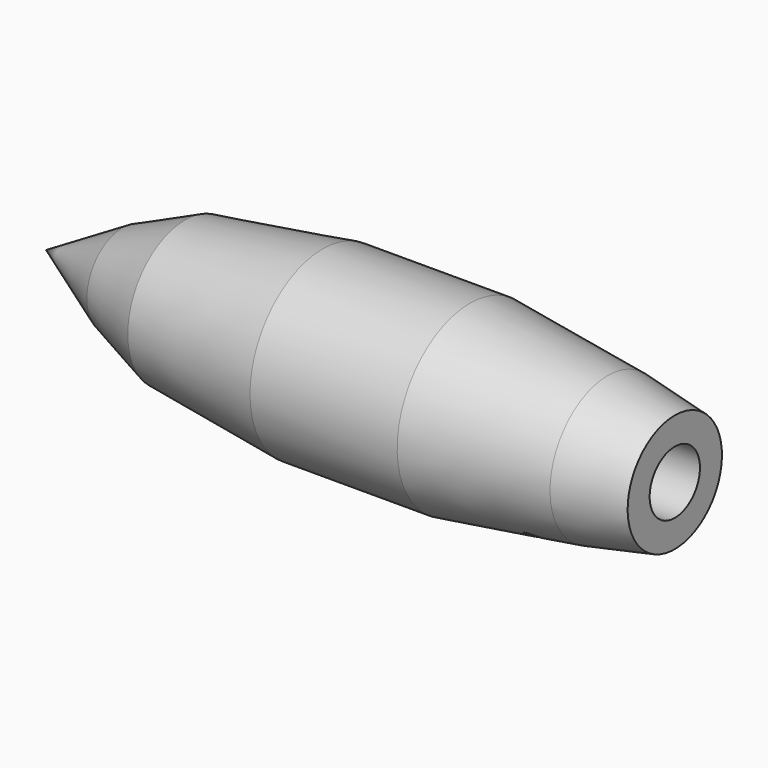
from build123d import *

# Parameters (mm, degrees)
F2_R          = 1.905
F3_DEPTH      = 29.4065909418
F3_DEPTH_BACK = 29.4065909418
F4_R          = 10.16
F5_DEPTH      = 50.8
F6_R          = 0.9525
F7_DEPTH      = 38.1


with BuildPart() as f1:
    # F0 (on Front) → F1 (revolve)
    with BuildSketch(Plane.XZ):
        Polygon((-76.7316836545, 14.3540199185), (-101.3946243259, 0), (101.8053756741, 0), (101.8053756741, 19.05), (80.1327452064, 23.306587711), (35.6063488341, 29.4055909418), (-11.9658752189, 29.4055909418), (-56.4698129892, 23.1448132545), align=None)
    revolve(axis=Axis((0.2053756741, 0, 0), (1, 0, 0)))

    # F2 (on Front) → F3 (cut, two sides)
    with BuildSketch(Plane.XZ) as f3_sk:
        with Locations((-45.3427098691, -21.1661662906)):
            Circle(F2_R)
        with Locations((66.7973011732, -21.1661662906)):
            Circle(F2_R)
    extrude(amount=-F3_DEPTH, mode=Mode.SUBTRACT)
    extrude(f3_sk.sketch, amount=F3_DEPTH_BACK, mode=Mode.SUBTRACT)

    # F4 (on face) → F5 (cut)
    with BuildSketch(Plane.YZ.offset(101.8053756741)):
        Circle(F4_R)
    extrude(amount=-F5_DEPTH, mode=Mode.SUBTRACT)

    # F6 (on Top) → F7 (cut)
    with BuildSketch(Plane.XY):
        with Locations((-26.3292919844, 0)):
            Circle(F6_R)
        with Locations((52.1670617163, 0)):
            Circle(F6_R)
    extrude(amount=-F7_DEPTH, mode=Mode.SUBTRACT)


solid = f1.part
